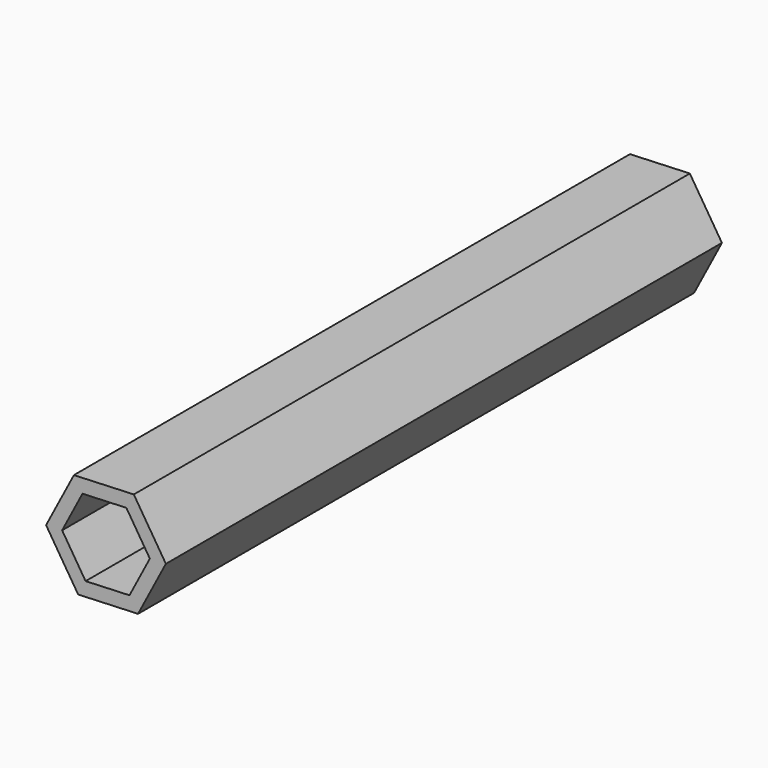
from build123d import *

# Parameters (mm, degrees)
F1_DEPTH = 31.75


with BuildPart() as f1:
    # F0 (on Front) → F1 (new body, symmetric)
    with BuildSketch(Plane.XZ):
        Polygon((5.472675, 0.224179), (2.542193, 4.851565), (-2.930482, 4.627386), (-5.472675, -0.224179), (-2.542193, -4.851565), (2.930482, -4.627386), align=None)
        Polygon((-2.145882, 3.388461), (1.861552, 3.552618), (4.007434, 0.164158), (2.145882, -3.388461), (-1.861552, -3.552618), (-4.007434, -0.164158), align=None, mode=Mode.SUBTRACT)
    extrude(amount=F1_DEPTH, both=True)


solid = f1.part
